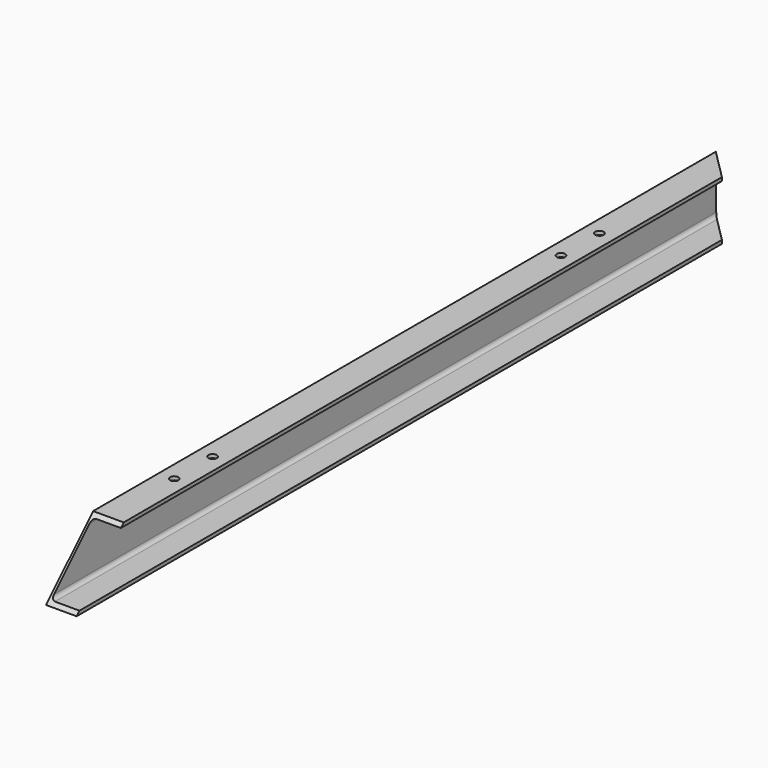
from build123d import *

# Parameters (mm, degrees)
F1_DEPTH = 1780
F3_DEPTH = 125.001
F5_DEPTH = 65.001
F6_R     = 9
F7_DEPTH = 7.5
F8_R     = 9
F9_DEPTH = 7.5


with BuildPart() as f1:
    # F0 (on Front) → F1 (new body)
    with BuildSketch(Plane.XZ):
        with BuildLine():
            Line((0, 125), (0, 0))
            Line((0, 0), (65, 0))
            Line((65, 0), (65, 7.5))
            Line((65, 7.5), (12.7, 7.5))
            ThreePointArc((12.7, 7.5), (7.043146, 9.843146), (4.7, 15.5))
            Line((4.7, 15.5), (4.7, 109.5))
            ThreePointArc((4.7, 109.5), (7.043146, 115.156854), (12.7, 117.5))
            Line((12.7, 117.5), (65, 117.5))
            Line((65, 117.5), (65, 125))
            Line((65, 125), (0, 125))
        make_face()
    extrude(amount=F1_DEPTH)

    # F2 (on face) → F3 (cut, through all)
    with BuildSketch(Plane.XY.offset(125)):
        Polygon((65, -65), (65, 0), (0, 0), align=None)
    extrude(amount=-F3_DEPTH, mode=Mode.SUBTRACT)

    # F4 (on face) → F5 (cut, through all)
    with BuildSketch(Plane(origin=(0, 0, 0), x_dir=(0, -1, 0), z_dir=(-1, 0, 0))):
        Polygon((1780, 0), (1780, 125), (1655, 125), align=None)
    extrude(amount=-F5_DEPTH, mode=Mode.SUBTRACT)

    # F6 (on face) → F7 (cut, through all)
    with BuildSketch(Plane.XY.offset(125)):
        with Locations((32.5, -350)):
            Circle(F6_R)
        with Locations((32.5, -452)):
            Circle(F6_R)
    extrude(amount=-F7_DEPTH, mode=Mode.SUBTRACT)

    # F8 (on face) → F9 (cut, through all)
    with BuildSketch(Plane.XY.offset(125)):
        with Locations((32.5, -1378)):
            Circle(F8_R)
        with Locations((32.5, -1480)):
            Circle(F8_R)
    extrude(amount=-F9_DEPTH, mode=Mode.SUBTRACT)


solid = f1.part
